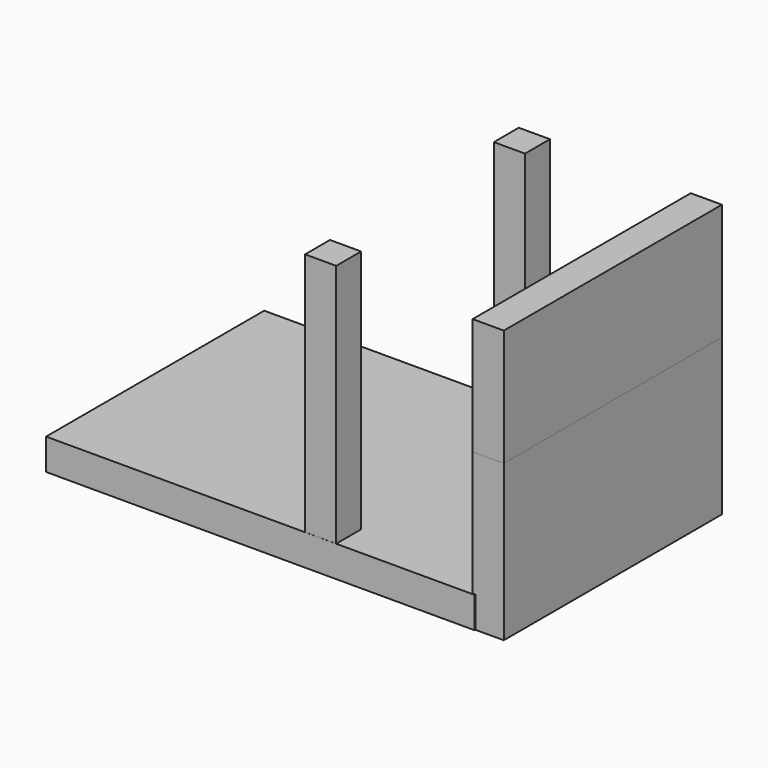
from build123d import *

# Parameters (mm, degrees)
F0_W     = 69.85
F0_H     = 44.45
F1_DEPTH = 5.08
F2_W     = 5.08
F2_H     = 44.45
F3_DEPTH = 44.45
F4_DEPTH = 25.4
F5_W     = 5.08
F5_H     = 5.08
F6_DEPTH = 44.958
F7_W     = 5.08
F7_H     = 5.08
F8_DEPTH = 44.958


with BuildPart() as f1:
    # F0 (on Top) → F1 (new body)
    with BuildSketch(Plane.XY):
        Rectangle(F0_W, F0_H)
    extrude(amount=F1_DEPTH)

    # F5 (on Top) → F6 (join)
    with BuildSketch(Plane.XY):
        with Locations((9.829413, -19.675359)):
            Rectangle(F5_W, F5_H)
    extrude(amount=F6_DEPTH)

    # F7 (on Top) + F5 (on Top) → F8 (join)
    with BuildSketch(Plane.XY):
        with Locations((9.261909, 19.501801)):
            Rectangle(F7_W, F7_H)
    with BuildSketch(Plane.XY):
        with Locations((9.829413, -19.675359)):
            Rectangle(F5_W, F5_H)
    extrude(amount=F8_DEPTH)


with BuildPart() as f3:
    # F2 (on Top) → F3 (new body)
    with BuildSketch(Plane.XY):
        with Locations((37.026247, 0.162242)):
            Rectangle(F2_W, F2_H)
    extrude(amount=F3_DEPTH)


with BuildPart() as f4:
    # F2 (on Top) → F4 (new body)
    with BuildSketch(Plane.XY):
        with Locations((37.026247, 0.162242)):
            Rectangle(F2_W, F2_H)
    extrude(amount=F4_DEPTH)


solid = Compound([f1.part, f3.part, f4.part])
